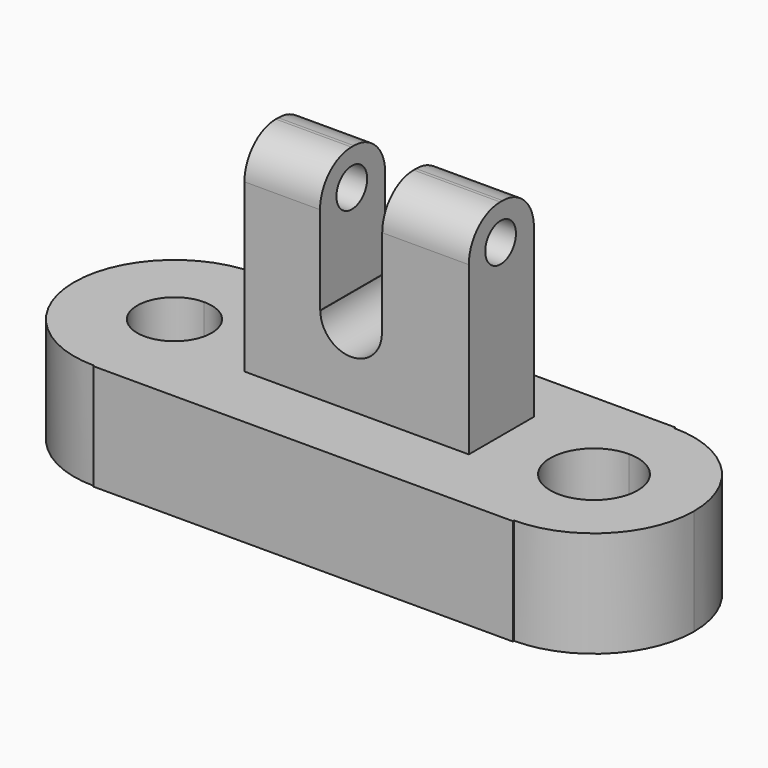
from build123d import *

# Parameters (mm, degrees)
F1_DEPTH  = 18.288
F3_W      = 38.6883560568
F3_H      = 14.0357739292
F4_DEPTH  = 35.56
F5_R      = 6.7564
F6_R      = 6.7453126933
F9_DEPTH  = 51.562
F11_R     = 3.3108000024
F12_DEPTH = 139.954


with BuildPart() as f1:
    # F0 (on Top) → F1 (new body)
    with BuildSketch(Plane.XY):
        with BuildLine():
            Line((37.3380035162, 16.6687499732), (-35.0043773651, 16.6687499732))
            Line((-35.0043773651, 16.6687499732), (-35.0043773651, 16.4739897927))
            ThreePointArc((-35.0043773651, 16.4739897927), (-22.7661779649, 11.4047616221), (-17.6969497944, -0.8334377781))
            ThreePointArc((-17.6969497944, -0.8334377781), (-22.7661779649, -13.0716371782), (-35.0043773651, -18.1408653488))
            Line((-35.0043773651, -18.1408653488), (-35.0043773651, -18.3356255293))
            Line((-35.0043773651, -18.3356255293), (37.3380035162, -18.3356255293))
            Line((37.3380035162, -18.3356255293), (37.3380035162, -18.0797577525))
            ThreePointArc((37.3380035162, -18.0797577525), (20.0916835417, -0.8334377781), (37.3380035162, 16.4128821964))
            Line((37.3380035162, 16.4128821964), (37.3380035162, 16.6687499732))
        make_face()
        with BuildLine():
            ThreePointArc((54.5843234907, -0.8334377781), (49.5329933207, 11.3615520264), (37.3380035162, 16.4128821964))
            Line((37.3380035162, 16.4128821964), (37.3380035162, 6.7044516866))
            ThreePointArc((37.3380035162, 6.7044516866), (42.6680962725, 4.4966549783), (44.8758929809, -0.8334377781))
            ThreePointArc((44.8758929809, -0.8334377781), (42.6680962725, -6.1635305344), (37.3380035162, -8.3713272428))
            Line((37.3380035162, -8.3713272428), (37.3380035162, -18.0797577525))
            ThreePointArc((37.3380035162, -18.0797577525), (49.5329933207, -13.0284275825), (54.5843234907, -0.8334377781))
        make_face()
        with BuildLine():
            Line((-35.0043773651, 5.5813243756), (-35.0043773651, 16.4739897927))
            ThreePointArc((-35.0043773651, 16.4739897927), (-52.3118049358, -0.8334377781), (-35.0043773651, -18.1408653488))
            Line((-35.0043773651, -18.1408653488), (-35.0043773651, -7.2481999317))
            ThreePointArc((-35.0043773651, -7.2481999317), (-41.4191395188, -0.8334377781), (-35.0043773651, 5.5813243756))
        make_face()
        with BuildLine():
            ThreePointArc((-17.6969497944, -0.8334377781), (-22.7661779649, 11.4047616221), (-35.0043773651, 16.4739897927))
            Line((-35.0043773651, 16.4739897927), (-35.0043773651, 5.5813243756))
            ThreePointArc((-35.0043773651, 5.5813243756), (-30.4684555466, 3.7024840405), (-28.5896152114, -0.8334377781))
            ThreePointArc((-28.5896152114, -0.8334377781), (-30.4684555466, -5.3693595966), (-35.0043773651, -7.2481999317))
            Line((-35.0043773651, -7.2481999317), (-35.0043773651, -18.1408653488))
            ThreePointArc((-35.0043773651, -18.1408653488), (-22.7661779649, -13.0716371782), (-17.6969497944, -0.8334377781))
        make_face()
        with BuildLine():
            Line((37.3380035162, 6.7044516866), (37.3380035162, 16.4128821964))
            ThreePointArc((37.3380035162, 16.4128821964), (20.0916835417, -0.8334377781), (37.3380035162, -18.0797577525))
            Line((37.3380035162, -18.0797577525), (37.3380035162, -8.3713272428))
            ThreePointArc((37.3380035162, -8.3713272428), (29.8001140515, -0.8334377781), (37.3380035162, 6.7044516866))
        make_face()
    extrude(amount=F1_DEPTH)

    # F3 (on offset) → F4 (join)
    with BuildSketch(Plane.XY.offset(18.288)):
        with Locations((1.2210039422, 0.1680313144)):
            Rectangle(F3_W, F3_H)
    extrude(amount=F4_DEPTH)

    # F5
    f5_edges = [f1.edges().sort_by_distance(p)[0] for p in [
        (1.221004, -6.849856, 53.848),
    ]]
    fillet(f5_edges, radius=F5_R)

    # F6
    f6_edges = [f1.edges().sort_by_distance(p)[0] for p in [
        (1.221004, 7.185918, 53.848),
    ]]
    fillet(f6_edges, radius=F6_R)

    # F8 (on offset) → F9 (cut)
    with BuildSketch(Plane.XZ.offset(14.732)):
        with BuildLine():
            Line((5.6341080926, 53.8724064827), (-5.0880652852, 53.8724064827))
            Line((-5.0880652852, 53.8724064827), (-5.0880652852, 31.7973420024))
            Line((-5.0880652852, 31.7973420024), (-5.034370235, 31.7973420024))
            ThreePointArc((-5.034370235, 31.7973420024), (0.2730214037, 37.1047336411), (5.5804130424, 31.7973420024))
            Line((5.5804130424, 31.7973420024), (5.6341080926, 31.7973420024))
            Line((5.6341080926, 31.7973420024), (5.6341080926, 53.8724064827))
        make_face()
        with BuildLine():
            ThreePointArc((5.5804130424, 31.7973420024), (0.2730214037, 37.1047336411), (-5.034370235, 31.7973420024))
            Line((-5.034370235, 31.7973420024), (5.5804130424, 31.7973420024))
        make_face()
        with BuildLine():
            Line((5.5804130424, 31.7973420024), (-5.034370235, 31.7973420024))
            ThreePointArc((-5.034370235, 31.7973420024), (0.2730214037, 26.4899503636), (5.5804130424, 31.7973420024))
        make_face()
    extrude(amount=-F9_DEPTH, mode=Mode.SUBTRACT)

    # F11 (on offset) → F12 (cut)
    with BuildSketch(Plane.YZ.offset(25.4)):
        with Locations((0, 47.6729050279)):
            Circle(F11_R)
    extrude(amount=-F12_DEPTH, mode=Mode.SUBTRACT)


solid = f1.part
